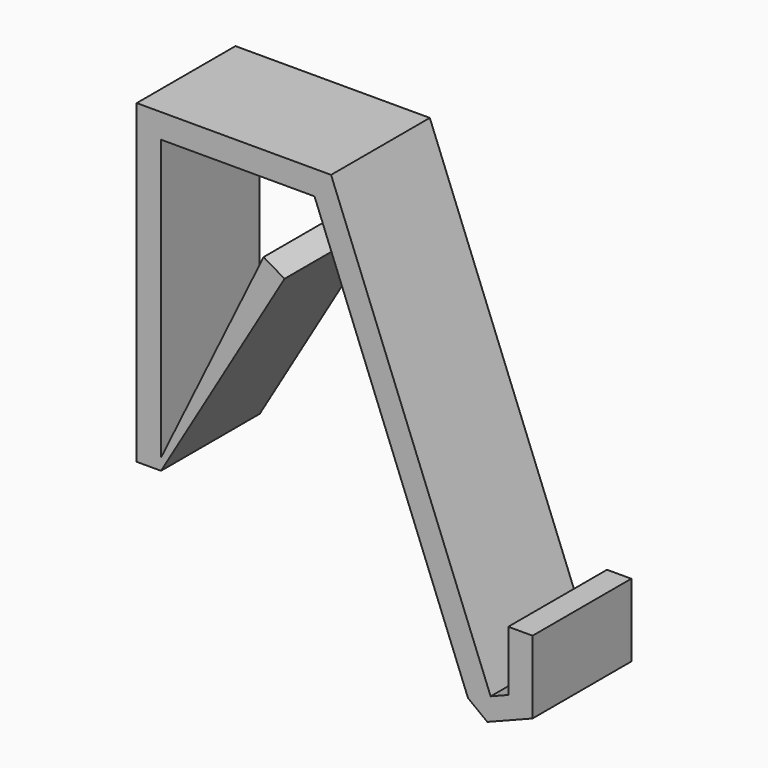
from build123d import *

# Parameters (mm, degrees)
F1_DEPTH = 25.4


with BuildPart() as f1:
    # F0 (on Front) → F1 (new body)
    with BuildSketch(Plane.XZ):
        Polygon((-65.267669, 43.5694), (-70.267669, 43.5694), (-70.267669, -16.4306), (-65.267669, -16.4306), (-65.267669, -14.049191), align=None)
        Polygon((-70.267669, 48.5694), (-70.267669, 43.5694), (-65.267669, 43.5694), (-33.678616, 43.5694), (-30.267669, 43.5694), (-30.267669, 48.5694), align=None)
        Polygon((-65.267669, -14.049191), (-65.267669, -16.4306), (-39.846155, 26.624558), (-44.151671, 29.166709), align=None)
        Polygon((-30.267669, 43.5694), (-33.678616, 43.5694), (-2.088201, -37.051378), (2.567167, -35.227221), (-30.267669, 48.5694), align=None)
        Polygon((2.567167, -35.227221), (-2.088201, -37.051378), (1.887126, -40.083996), (11.197862, -36.435681), (11.197862, -21.435681), (6.197862, -21.435681), (6.197862, -33.801015), align=None)
    extrude(amount=F1_DEPTH)


solid = f1.part
